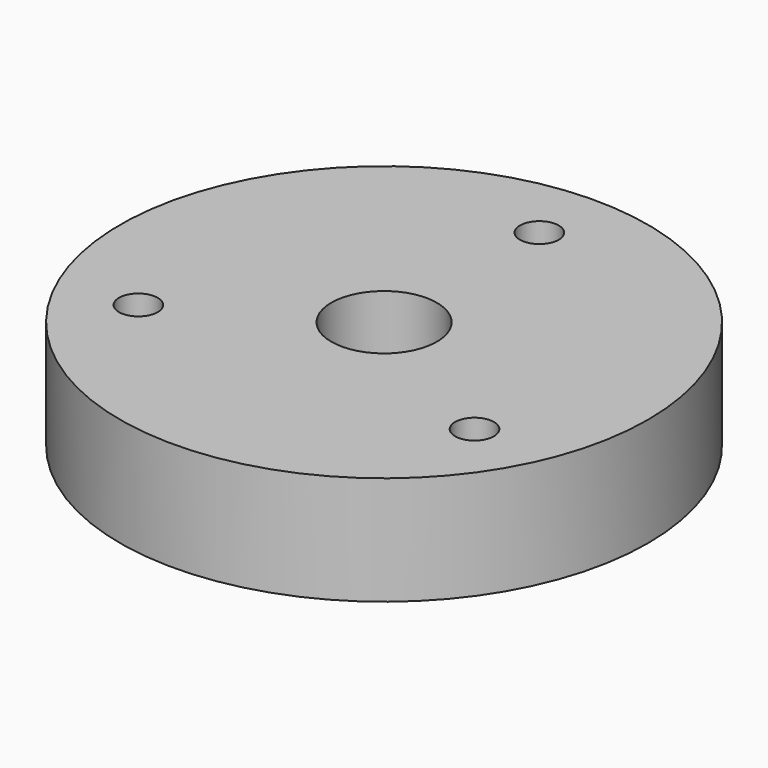
from build123d import *

# Parameters (mm, degrees)
F0_R     = 17
F1_DEPTH = 7
F3_D     = 6.8
F4_D     = 2.5


with BuildPart() as f1:
    # F0 (on Top) → F1 (new body)
    with BuildSketch(Plane.XY):
        Circle(F0_R)
    extrude(amount=F1_DEPTH)

    # F3 (through all)
    with Locations(Plane.XY.offset(7)):
        with Locations((0, 0)):
            Hole(F3_D / 2)

    # F4 (through all)
    with Locations(Plane.XY.offset(7)):
        with Locations((0, 12.5), (10.8253175473, -6.25), (-10.8253175473, -6.25)):
            Hole(F4_D / 2)


solid = f1.part
